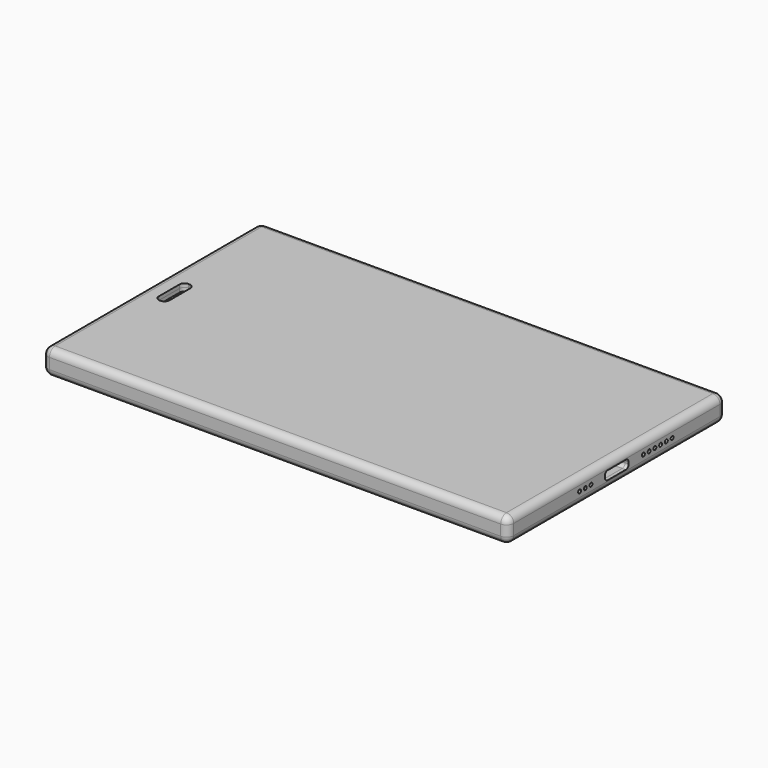
from build123d import *

# Parameters (mm, degrees)
BOX006_W          = 111
BOX006_H          = 72
BOX006_DEPTH      = 1
BOX007_W          = 3
BOX007_H          = 10
BOX007_DEPTH      = 10
FILLET001_R       = 1.4
BOX002_W          = 126
BOX002_H          = 72
BOX002_DEPTH      = 1
BOX011_W          = 40
BOX011_H          = 70
BOX011_DEPTH      = 2
BOX012_W          = 72
BOX012_H          = 67
BOX012_DEPTH      = 2.5
CYLINDER003_R     = 1
CYLINDER003_DEPTH = 73
CYLINDER005_R     = 2.5
CYLINDER005_DEPTH = 1
CYLINDER007_R     = 1.5
CYLINDER007_DEPTH = 1
BOX010_W          = 6
BOX010_H          = 15
BOX010_DEPTH      = 10
BOX008_W          = 5
BOX008_H          = 12
BOX008_DEPTH      = 10
BOX009_W          = 6
BOX009_H          = 3
BOX009_DEPTH      = 10
FILLET002_R       = 1.4
CYLINDER001_R     = 2
CYLINDER001_DEPTH = 10
CYLINDER_R        = 0.8
CYLINDER_DEPTH    = 10
CYLINDER002_R     = 1.2
CYLINDER002_DEPTH = 10
BOX005_W          = 126
BOX005_H          = 72
BOX005_DEPTH      = 0.2
BOX004_W          = 5
BOX004_H          = 72
BOX004_DEPTH      = 1
BOX003_W          = 10
BOX003_H          = 72
BOX003_DEPTH      = 1
CYLINDER015_R     = 0.5
CYLINDER015_DEPTH = 10
CYLINDER016_R     = 0.5
CYLINDER016_DEPTH = 10
CYLINDER018_R     = 0.5
CYLINDER018_DEPTH = 10
CYLINDER017_R     = 0.5
CYLINDER017_DEPTH = 10
CYLINDER011_R     = 0.5
CYLINDER011_DEPTH = 10
CYLINDER014_R     = 0.5
CYLINDER014_DEPTH = 10
CYLINDER012_R     = 0.5
CYLINDER012_DEPTH = 10
CYLINDER013_R     = 0.5
CYLINDER013_DEPTH = 10
CYLINDER010_R     = 0.5
CYLINDER010_DEPTH = 10
CYLINDER009_R     = 0.25
CYLINDER009_DEPTH = 10
CYLINDER008_R     = 1.25
CYLINDER008_DEPTH = 10
BOX035_W          = 8.65
BOX035_H          = 8.3
BOX035_DEPTH      = 2.45
FILLET022_R       = 1
CYLINDER006_R     = 1.5
CYLINDER006_DEPTH = 10
CYLINDER004_R     = 2.5
CYLINDER004_DEPTH = 10
BOX013_W          = 11.5
BOX013_H          = 70
BOX013_DEPTH      = 3
BOX001_W          = 126
BOX001_H          = 72
BOX001_DEPTH      = 7
BOX_W             = 130
BOX_H             = 76
BOX_DEPTH         = 7
FILLET_R          = 2
BOX046_W          = 5
BOX046_H          = 5
BOX046_DEPTH      = 10
BOX045_W          = 3
BOX045_H          = 20
BOX045_DEPTH      = 10
BOX044_W          = 9
BOX044_H          = 20
BOX044_DEPTH      = 10
CYLINDER020_R     = 0.5
CYLINDER020_DEPTH = 2
CYLINDER019_R     = 0.5
CYLINDER019_DEPTH = 10
BOX043_W          = 3
BOX043_H          = 4
BOX043_DEPTH      = 10
BOX042_W          = 2.5
BOX042_H          = 3.5
BOX042_DEPTH      = 10
CHAMFER_SIZE      = 0.5
BOX041_W          = 2.5
BOX041_H          = 6
BOX041_DEPTH      = 10
BOX040_W          = 5
BOX040_H          = 3
BOX040_DEPTH      = 10
BOX039_W          = 1
BOX039_H          = 2
BOX039_DEPTH      = 10
BOX038_W          = 11
BOX038_H          = 20
BOX038_DEPTH      = 10
BOX037_W          = 3
BOX037_H          = 10
BOX037_DEPTH      = 4
BOX036_W          = 8.65
BOX036_H          = 8.3
BOX036_DEPTH      = 2.45
FILLET023_R       = 1
BOX014_W          = 11.5
BOX014_H          = 70
BOX014_DEPTH      = 3
BOX048_W          = 83.5
BOX048_H          = 15
BOX048_DEPTH      = 0.2
BOX047_W          = 10.5
BOX047_H          = 47
BOX047_DEPTH      = 0.2
BOX049_W          = 83.5
BOX049_H          = 13
BOX049_DEPTH      = 0.2
BOX052_W          = 5
BOX052_H          = 13
BOX052_DEPTH      = 0.2
BOX051_W          = 13
BOX051_H          = 5
BOX051_DEPTH      = 0.2
BOX050_W          = 21
BOX050_H          = 5
BOX050_DEPTH      = 0.2
FILLET024_R       = 1


with BuildPart() as box006:
    # Box006 → Box006 (new body)
    with BuildSketch(Plane(origin=(12, 2, 5), x_dir=(1, 0, 0), z_dir=(0, 0, 1))):
        with Locations((55.5, 36)):
            Rectangle(BOX006_W, BOX006_H)
    extrude(amount=BOX006_DEPTH)


with BuildPart() as ear_speaker:
    # Box007 → Box007 (new body)
    with BuildSketch(Plane(origin=(5, 33, 0), x_dir=(1, 0, 0), z_dir=(0, 0, 1))):
        with Locations((1.5, 5)):
            Rectangle(BOX007_W, BOX007_H)
    extrude(amount=BOX007_DEPTH)

    # Fillet001
    fillet001_edges = [ear_speaker.edges().sort_by_distance(p)[0] for p in [
        (5, 33, 5),
        (5, 43, 5),
        (8, 33, 5),
        (8, 43, 5),
    ]]
    fillet(fillet001_edges, radius=FILLET001_R)


with BuildPart() as ear_speaker_1:
    # Fillet001 placement: moved
    add(ear_speaker.part.moved(Location((0, 0, 2))))


with BuildPart() as cut002:
    # Box002 → Box002 (new body)
    with BuildSketch(Plane(origin=(2, 2, 6), x_dir=(1, 0, 0), z_dir=(0, 0, 1))):
        with Locations((63, 36)):
            Rectangle(BOX002_W, BOX002_H)
    extrude(amount=BOX002_DEPTH)

    # Cut002: cut Ear speaker
    add(ear_speaker_1.part, mode=Mode.SUBTRACT)


with BuildPart() as pcb:
    # Box011 → Box011 (new body)
    with BuildSketch(Plane(origin=(3, 3, 2.5), x_dir=(1, 0, 0), z_dir=(0, 0, 1))):
        with Locations((20, 35)):
            Rectangle(BOX011_W, BOX011_H)
    extrude(amount=BOX011_DEPTH)


with BuildPart() as battery:
    # Box012 → Box012 (new body)
    with BuildSketch(Plane(origin=(45, 3, 1.3), x_dir=(1, 0, 0), z_dir=(0, 0, 1))):
        with Locations((36, 33.5)):
            Rectangle(BOX012_W, BOX012_H)
    extrude(amount=BOX012_DEPTH)


with BuildPart() as antenna:
    # Cylinder003 → Cylinder003 (new body)
    with BuildSketch(Plane(origin=(44, 72, 3.3), x_dir=(0, 1, 0), z_dir=(1, 0, 0))):
        Circle(CYLINDER003_R)
    extrude(amount=CYLINDER003_DEPTH)


with BuildPart() as camera_lent:
    # Cylinder005 → Cylinder005 (new body)
    with BuildSketch(Plane(origin=(6, 70, 0), x_dir=(1, 0, 0), z_dir=(0, 0, 1))):
        Circle(CYLINDER005_R)
    extrude(amount=CYLINDER005_DEPTH)


with BuildPart() as obj1:
    # Cylinder007 → Cylinder007 (new body)
    with BuildSketch(Plane(origin=(6, 64, 0), x_dir=(1, 0, 0), z_dir=(0, 0, 1))):
        Circle(CYLINDER007_R)
    extrude(amount=CYLINDER007_DEPTH)


with BuildPart() as cubo009:
    # Box010 → Box010 (new body)
    with BuildSketch(Plane(origin=(36.5, 30.5, 0), x_dir=(1, 0, 0), z_dir=(0, 0, 1))):
        with Locations((3, 7.5)):
            Rectangle(BOX010_W, BOX010_H)
    extrude(amount=BOX010_DEPTH)


with BuildPart() as cubo007:
    # Box008 → Box008 (new body)
    with BuildSketch(Plane(origin=(4, 32, -4.5), x_dir=(1, 0, 0), z_dir=(0, 0, 1))):
        with Locations((2.5, 6)):
            Rectangle(BOX008_W, BOX008_H)
    extrude(amount=BOX008_DEPTH)


with BuildPart() as fillet002:
    # Box009 → Box009 (new body)
    with BuildSketch(Plane(origin=(4, 46, 0), x_dir=(1, 0, 0), z_dir=(0, 0, 1))):
        with Locations((3, 1.5)):
            Rectangle(BOX009_W, BOX009_H)
    extrude(amount=BOX009_DEPTH)

    # Fillet002
    fillet002_edges = [fillet002.edges().sort_by_distance(p)[0] for p in [
        (4, 46, 5),
        (4, 49, 5),
        (10, 46, 5),
        (10, 49, 5),
    ]]
    fillet(fillet002_edges, radius=FILLET002_R)


with BuildPart() as cilindro001:
    # Cylinder001 → Cylinder001 (new body)
    with BuildSketch(Plane(origin=(6.4, 25, 0), x_dir=(1, 0, 0), z_dir=(0, 0, 1))):
        Circle(CYLINDER001_R)
    extrude(amount=CYLINDER001_DEPTH)


with BuildPart() as cilindro:
    # Cylinder → Cylinder (new body)
    with BuildSketch(Plane(origin=(6.4, 30, 0), x_dir=(1, 0, 0), z_dir=(0, 0, 1))):
        Circle(CYLINDER_R)
    extrude(amount=CYLINDER_DEPTH)


with BuildPart() as led_camera_flash:
    # Cylinder002 → Cylinder002 (new body)
    with BuildSketch(Plane(origin=(6.4, 20, 0), x_dir=(1, 0, 0), z_dir=(0, 0, 1))):
        Circle(CYLINDER002_R)
    extrude(amount=CYLINDER002_DEPTH)

    # Fusion: union Cilindro001, Cilindro
    add(cilindro001.part)
    add(cilindro.part)


with BuildPart() as cut008:
    # Box005 → Box005 (new body)
    with BuildSketch(Plane(origin=(2, 2, 4.8), x_dir=(1, 0, 0), z_dir=(0, 0, 1))):
        with Locations((63, 36)):
            Rectangle(BOX005_W, BOX005_H)
    extrude(amount=BOX005_DEPTH)

    # Cut004: cut LED, CAMERA, FLASH
    add(led_camera_flash.part, mode=Mode.SUBTRACT)

    # Cut006: cut Fillet002
    add(fillet002.part, mode=Mode.SUBTRACT)

    # Cut007: cut Cubo007
    add(cubo007.part, mode=Mode.SUBTRACT)

    # Cut008: cut Cubo009
    add(cubo009.part, mode=Mode.SUBTRACT)


with BuildPart() as cubo004:
    # Box004 → Box004 (new body)
    with BuildSketch(Plane(origin=(123, 2, 5), x_dir=(1, 0, 0), z_dir=(0, 0, 1))):
        with Locations((2.5, 36)):
            Rectangle(BOX004_W, BOX004_H)
    extrude(amount=BOX004_DEPTH)


with BuildPart() as frame:
    # Box003 → Box003 (new body)
    with BuildSketch(Plane(origin=(2, 2, 5), x_dir=(1, 0, 0), z_dir=(0, 0, 1))):
        with Locations((5, 36)):
            Rectangle(BOX003_W, BOX003_H)
    extrude(amount=BOX003_DEPTH)

    # Cut001: cut Ear speaker
    add(ear_speaker_1.part, mode=Mode.SUBTRACT)

    # Cut003: cut LED, CAMERA, FLASH
    add(led_camera_flash.part, mode=Mode.SUBTRACT)

    # Cut005: cut Fillet002
    add(fillet002.part, mode=Mode.SUBTRACT)

    # Fusion001: union Cut008, Cubo004
    add(cut008.part)
    add(cubo004.part)


with BuildPart() as cilindro010:
    # Cylinder015 → Cylinder015 (new body)
    with BuildSketch(Plane(origin=(122, 51.3, 3.5), x_dir=(0, 1, 0), z_dir=(1, 0, 0))):
        Circle(CYLINDER015_R)
    extrude(amount=CYLINDER015_DEPTH)


with BuildPart() as cilindro011:
    # Cylinder016 → Cylinder016 (new body)
    with BuildSketch(Plane(origin=(122, 53.3, 3.5), x_dir=(0, 1, 0), z_dir=(1, 0, 0))):
        Circle(CYLINDER016_R)
    extrude(amount=CYLINDER016_DEPTH)


with BuildPart() as cilindro013:
    # Cylinder018 → Cylinder018 (new body)
    with BuildSketch(Plane(origin=(122, 57.3, 3.5), x_dir=(0, 1, 0), z_dir=(1, 0, 0))):
        Circle(CYLINDER018_R)
    extrude(amount=CYLINDER018_DEPTH)


with BuildPart() as cilindro012:
    # Cylinder017 → Cylinder017 (new body)
    with BuildSketch(Plane(origin=(122, 55.3, 3.5), x_dir=(0, 1, 0), z_dir=(1, 0, 0))):
        Circle(CYLINDER017_R)
    extrude(amount=CYLINDER017_DEPTH)


with BuildPart() as cilindro006:
    # Cylinder011 → Cylinder011 (new body)
    with BuildSketch(Plane(origin=(122, 47.3, 3.5), x_dir=(0, 1, 0), z_dir=(1, 0, 0))):
        Circle(CYLINDER011_R)
    extrude(amount=CYLINDER011_DEPTH)


with BuildPart() as obj2:
    # Cylinder014 → Cylinder014 (new body)
    with BuildSketch(Plane(origin=(122, 49.3, 3.5), x_dir=(0, 1, 0), z_dir=(1, 0, 0))):
        Circle(CYLINDER014_R)
    extrude(amount=CYLINDER014_DEPTH)

    # Fusion003: union Cilindro010, Cilindro011, Cilindro013, Cilindro012, Cilindro006
    add(cilindro010.part)
    add(cilindro011.part)
    add(cilindro013.part)
    add(cilindro012.part)
    add(cilindro006.part)


with BuildPart() as cilindro007:
    # Cylinder012 → Cylinder012 (new body)
    with BuildSketch(Plane(origin=(122, 27, 3.5), x_dir=(0, 1, 0), z_dir=(1, 0, 0))):
        Circle(CYLINDER012_R)
    extrude(amount=CYLINDER012_DEPTH)


with BuildPart() as cilindro008:
    # Cylinder013 → Cylinder013 (new body)
    with BuildSketch(Plane(origin=(122, 25, 3.5), x_dir=(0, 1, 0), z_dir=(1, 0, 0))):
        Circle(CYLINDER013_R)
    extrude(amount=CYLINDER013_DEPTH)


with BuildPart() as agujero_micro:
    # Cylinder010 → Cylinder010 (new body)
    with BuildSketch(Plane(origin=(122, 29, 3.5), x_dir=(0, 1, 0), z_dir=(1, 0, 0))):
        Circle(CYLINDER010_R)
    extrude(amount=CYLINDER010_DEPTH)

    # Fusion002: union Cilindro007, Cilindro008
    add(cilindro007.part)
    add(cilindro008.part)


with BuildPart() as cilindro004:
    # Cylinder009 → Cylinder009 (new body)
    with BuildSketch(Plane(origin=(-2, 15, 3.5), x_dir=(0, 1, 0), z_dir=(1, 0, 0))):
        Circle(CYLINDER009_R)
    extrude(amount=CYLINDER009_DEPTH)


with BuildPart() as cilindro003:
    # Cylinder008 → Cylinder008 (new body)
    with BuildSketch(Plane(origin=(-2, 11, 3.5), x_dir=(0, 1, 0), z_dir=(1, 0, 0))):
        Circle(CYLINDER008_R)
    extrude(amount=CYLINDER008_DEPTH)


with BuildPart() as usb_c003:
    # Box035 → Box035 (new body)
    with BuildSketch(Plane.XY):
        with Locations((4.325, 4.15)):
            Rectangle(BOX035_W, BOX035_H)
    extrude(amount=BOX035_DEPTH)

    # Fillet022
    fillet022_edges = [usb_c003.edges().sort_by_distance(p)[0] for p in [
        (4.325, 0, 0),
        (4.325, 0, 2.45),
        (4.325, 8.3, 0),
        (4.325, 8.3, 2.45),
    ]]
    fillet(fillet022_edges, radius=FILLET022_R)


with BuildPart() as usb_c003_1:
    # Fillet022 placement: moved
    add(usb_c003.part.moved(Location((126, 33.85, 2.28))))


with BuildPart() as flash:
    # Cylinder006 → Cylinder006 (new body)
    with BuildSketch(Plane(origin=(6, 64, -4), x_dir=(1, 0, 0), z_dir=(0, 0, 1))):
        Circle(CYLINDER006_R)
    extrude(amount=CYLINDER006_DEPTH)


with BuildPart() as camera:
    # Cylinder004 → Cylinder004 (new body)
    with BuildSketch(Plane(origin=(6, 70, -5), x_dir=(1, 0, 0), z_dir=(0, 0, 1))):
        Circle(CYLINDER004_R)
    extrude(amount=CYLINDER004_DEPTH)


with BuildPart() as cubo012:
    # Box013 → Box013 (new body)
    with BuildSketch(Plane(origin=(117.5, 3, 1.5), x_dir=(1, 0, 0), z_dir=(0, 0, 1))):
        with Locations((5.75, 35)):
            Rectangle(BOX013_W, BOX013_H)
    extrude(amount=BOX013_DEPTH)


with BuildPart() as cubo001:
    # Box001 → Box001 (new body)
    with BuildSketch(Plane(origin=(2, 2, 1), x_dir=(1, 0, 0), z_dir=(0, 0, 1))):
        with Locations((63, 36)):
            Rectangle(BOX001_W, BOX001_H)
    extrude(amount=BOX001_DEPTH)


with BuildPart() as cut017:
    # Box → Box (new body)
    with BuildSketch(Plane.XY):
        with Locations((65, 38)):
            Rectangle(BOX_W, BOX_H)
    extrude(amount=BOX_DEPTH)

    # Fillet
    fillet_edges = [cut017.edges().sort_by_distance(p)[0] for p in [
        (0, 0, 3.5),
        (0, 38, 7),
        (0, 76, 3.5),
        (0, 38, 0),
        (130, 0, 3.5),
        (130, 38, 7),
        (130, 76, 3.5),
        (130, 38, 0),
        (65, 0, 0),
        (65, 0, 7),
        (65, 76, 0),
        (65, 76, 7),
    ]]
    fillet(fillet_edges, radius=FILLET_R)

    # Cut: cut Cubo001
    add(cubo001.part, mode=Mode.SUBTRACT)

    # Cut009: cut Cubo012
    add(cubo012.part, mode=Mode.SUBTRACT)

    # Cut010: cut Camera
    add(camera.part, mode=Mode.SUBTRACT)

    # Cut011: cut FLASH
    add(flash.part, mode=Mode.SUBTRACT)

    # Cut012: cut USB-C003
    add(usb_c003_1.part, mode=Mode.SUBTRACT)

    # Cut014: cut Cilindro003
    add(cilindro003.part, mode=Mode.SUBTRACT)

    # Cut015: cut Cilindro004
    add(cilindro004.part, mode=Mode.SUBTRACT)

    # Cut016: cut Agujero micro
    add(agujero_micro.part, mode=Mode.SUBTRACT)

    # Cut017: cut obj2
    add(obj2.part, mode=Mode.SUBTRACT)


with BuildPart() as cubo040:
    # Box046 → Box046 (new body)
    with BuildSketch(Plane(origin=(119, 26, 3.9), x_dir=(1, 0, 0), z_dir=(0, 0, 1))):
        with Locations((2.5, 2.5)):
            Rectangle(BOX046_W, BOX046_H)
    extrude(amount=BOX046_DEPTH)


with BuildPart() as flex_motor:
    # Box045 → Box045 (new body)
    with BuildSketch(Plane(origin=(119, 7, 3.9), x_dir=(1, 0, 0), z_dir=(0, 0, 1))):
        with Locations((1.5, 10)):
            Rectangle(BOX045_W, BOX045_H)
    extrude(amount=BOX045_DEPTH)

    # Fusion005: union Cubo040
    add(cubo040.part)


with BuildPart() as cubo038:
    # Box044 → Box044 (new body)
    with BuildSketch(Plane(origin=(118.3, 5, 1.9), x_dir=(1, 0, 0), z_dir=(0, 0, 1))):
        with Locations((4.5, 10)):
            Rectangle(BOX044_W, BOX044_H)
    extrude(amount=BOX044_DEPTH)


with BuildPart() as cilindro015:
    # Cylinder020 → Cylinder020 (new body)
    with BuildSketch(Plane(origin=(126.75, 29.3, 3.5), x_dir=(0, 0, 1), z_dir=(0, 1, 0))):
        Circle(CYLINDER020_R)
    extrude(amount=CYLINDER020_DEPTH)


with BuildPart() as cilindro014:
    # Cylinder019 → Cylinder019 (new body)
    with BuildSketch(Plane(origin=(126, 29, 3.5), x_dir=(0, 1, 0), z_dir=(1, 0, 0))):
        Circle(CYLINDER019_R)
    extrude(amount=CYLINDER019_DEPTH)


with BuildPart() as cubo037:
    # Box043 → Box043 (new body)
    with BuildSketch(Plane(origin=(125.3, 28.75, 4), x_dir=(1, 0, 0), z_dir=(0, 0, 1))):
        with Locations((1.5, 2)):
            Rectangle(BOX043_W, BOX043_H)
    extrude(amount=BOX043_DEPTH)


with BuildPart() as chamfer_body:
    # Box042 → Box042 (new body)
    with BuildSketch(Plane(origin=(125.5, 29, 3.9), x_dir=(1, 0, 0), z_dir=(0, 0, 1))):
        with Locations((1.25, 1.75)):
            Rectangle(BOX042_W, BOX042_H)
    extrude(amount=BOX042_DEPTH)

    # Chamfer
    chamfer_edges = [chamfer_body.edges().sort_by_distance(p)[0] for p in [
        (125.5, 30.75, 3.9),
        (128, 30.75, 3.9),
        (126.75, 29, 3.9),
        (126.75, 32.5, 3.9),
    ]]
    chamfer(chamfer_edges, length=CHAMFER_SIZE)


with BuildPart() as chamfer_body_1:
    # Chamfer placement: moved
    add(chamfer_body.part.moved(Location((0, 0, -0.5))))


with BuildPart() as cubo035:
    # Box041 → Box041 (new body)
    with BuildSketch(Plane(origin=(124.75, 43, 3.9), x_dir=(1, 0, 0), z_dir=(0, 0, 1))):
        with Locations((1.25, 3)):
            Rectangle(BOX041_W, BOX041_H)
    extrude(amount=BOX041_DEPTH)


with BuildPart() as flex_loud_speaker:
    # Box040 → Box040 (new body)
    with BuildSketch(Plane(origin=(123.5, 43, 3.9), x_dir=(1, 0, 0), z_dir=(0, 0, 1))):
        with Locations((2.5, 1.5)):
            Rectangle(BOX040_W, BOX040_H)
    extrude(amount=BOX040_DEPTH)

    # Fusion004: union Cubo035
    add(cubo035.part)


with BuildPart() as cubo033:
    # Box039 → Box039 (new body)
    with BuildSketch(Plane(origin=(118.5, 67, 1.9), x_dir=(1, 0, 0), z_dir=(0, 0, 1))):
        with Locations((0.5, 1)):
            Rectangle(BOX039_W, BOX039_H)
    extrude(amount=BOX039_DEPTH)


with BuildPart() as cubo032:
    # Box038 → Box038 (new body)
    with BuildSketch(Plane(origin=(118.5, 48, 1.9), x_dir=(1, 0, 0), z_dir=(0, 0, 1))):
        with Locations((5.5, 10)):
            Rectangle(BOX038_W, BOX038_H)
    extrude(amount=BOX038_DEPTH)


with BuildPart() as cubo031:
    # Box037 → Box037 (new body)
    with BuildSketch(Plane(origin=(119, 33, 3.8), x_dir=(1, 0, 0), z_dir=(0, 0, 1))):
        with Locations((1.5, 5)):
            Rectangle(BOX037_W, BOX037_H)
    extrude(amount=BOX037_DEPTH)


with BuildPart() as usb_c004:
    # Box036 → Box036 (new body)
    with BuildSketch(Plane.XY):
        with Locations((4.325, 4.15)):
            Rectangle(BOX036_W, BOX036_H)
    extrude(amount=BOX036_DEPTH)

    # Fillet023
    fillet023_edges = [usb_c004.edges().sort_by_distance(p)[0] for p in [
        (4.325, 0, 0),
        (4.325, 0, 2.45),
        (4.325, 8.3, 0),
        (4.325, 8.3, 2.45),
    ]]
    fillet(fillet023_edges, radius=FILLET023_R)


with BuildPart() as usb_c004_1:
    # Fillet023 placement: moved
    add(usb_c004.part.moved(Location((122, 33.85, 2.28))))


with BuildPart() as cut027:
    # Box014 → Box014 (new body)
    with BuildSketch(Plane(origin=(117.5, 3, 1.5), x_dir=(1, 0, 0), z_dir=(0, 0, 1))):
        with Locations((5.75, 35)):
            Rectangle(BOX014_W, BOX014_H)
    extrude(amount=BOX014_DEPTH)

    # Cut013: cut USB-C004
    add(usb_c004_1.part, mode=Mode.SUBTRACT)

    # Cut018: cut Cubo031
    add(cubo031.part, mode=Mode.SUBTRACT)

    # Cut019: cut Cubo032
    add(cubo032.part, mode=Mode.SUBTRACT)

    # Cut020: cut Cubo033
    add(cubo033.part, mode=Mode.SUBTRACT)

    # Cut021: cut Flex Loud Speaker
    add(flex_loud_speaker.part, mode=Mode.SUBTRACT)

    # Cut022: cut Chamfer body
    add(chamfer_body_1.part, mode=Mode.SUBTRACT)

    # Cut023: cut Cubo037
    add(cubo037.part, mode=Mode.SUBTRACT)

    # Cut024: cut Cilindro014
    add(cilindro014.part, mode=Mode.SUBTRACT)

    # Cut025: cut Cilindro015
    add(cilindro015.part, mode=Mode.SUBTRACT)

    # Cut026: cut Cubo038
    add(cubo038.part, mode=Mode.SUBTRACT)

    # Cut027: cut Flex motor
    add(flex_motor.part, mode=Mode.SUBTRACT)


with BuildPart() as cubo042:
    # Box048 → Box048 (new body)
    with BuildSketch(Plane(origin=(37, 47.5, 4.55), x_dir=(1, 0, 0), z_dir=(0, 0, 1))):
        with Locations((41.75, 7.5)):
            Rectangle(BOX048_W, BOX048_H)
    extrude(amount=BOX048_DEPTH)


with BuildPart() as main_flex:
    # Box047 → Box047 (new body)
    with BuildSketch(Plane(origin=(118, 25.5, 4.55), x_dir=(1, 0, 0), z_dir=(0, 0, 1))):
        with Locations((5.25, 23.5)):
            Rectangle(BOX047_W, BOX047_H)
    extrude(amount=BOX047_DEPTH)

    # Fusion006: union Cubo042
    add(cubo042.part)


with BuildPart() as screen_flex:
    # Box049 → Box049 (new body)
    with BuildSketch(Plane(origin=(37, 31.5, 5.3), x_dir=(1, 0, 0), z_dir=(0, 0, 1))):
        with Locations((41.75, 6.5)):
            Rectangle(BOX049_W, BOX049_H)
    extrude(amount=BOX049_DEPTH)


with BuildPart() as cubo045:
    # Box052 → Box052 (new body)
    with BuildSketch(Plane(origin=(53, 7.5, 5.3), x_dir=(1, 0, 0), z_dir=(0, 0, 1))):
        with Locations((2.5, 6.5)):
            Rectangle(BOX052_W, BOX052_H)
    extrude(amount=BOX052_DEPTH)


with BuildPart() as cubo044:
    # Box051 → Box051 (new body)
    with BuildSketch(Plane(origin=(45, 7.5, 5.3), x_dir=(1, 0, 0), z_dir=(0, 0, 1))):
        with Locations((6.5, 2.5)):
            Rectangle(BOX051_W, BOX051_H)
    extrude(amount=BOX051_DEPTH)


with BuildPart() as fillet024:
    # Box050 → Box050 (new body)
    with BuildSketch(Plane(origin=(37, 19.5, 5.3), x_dir=(1, 0, 0), z_dir=(0, 0, 1))):
        with Locations((10.5, 2.5)):
            Rectangle(BOX050_W, BOX050_H)
    extrude(amount=BOX050_DEPTH)

    # Fusion007: union Cubo045, Cubo044
    add(cubo045.part)
    add(cubo044.part)


with BuildPart() as fillet024_1:
    # Fusion007 placement: moved
    add(fillet024.part.moved(Location((-0.5, 0, -0.75))))

    # Fillet024
    fillet024_edges = [fillet024_1.edges().sort_by_distance(p)[0] for p in [
        (52.5, 12.5, 4.65),
        (52.5, 19.5, 4.65),
        (57.5, 24.5, 4.65),
        (57.5, 7.5, 4.65),
    ]]
    fillet(fillet024_edges, radius=FILLET024_R)


solid = Compound([box006.part, cut002.part, pcb.part, battery.part, antenna.part, camera_lent.part, obj1.part, frame.part, cut017.part, cut027.part, main_flex.part, screen_flex.part, fillet024_1.part])
